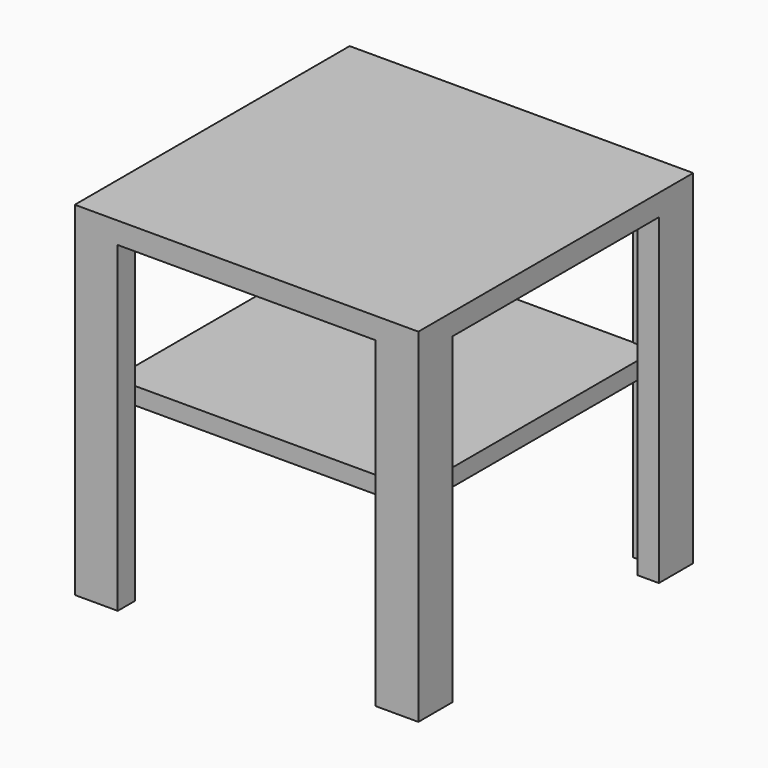
from build123d import *

# Parameters (mm, degrees)
F1_W     = 400
F1_H     = 400
F2_DEPTH = 25
F4_DEPTH = 375
F6_W     = 350
F6_H     = 350
F7_DEPTH = 20


with BuildPart() as f2:
    # F1 (on offset) → F2 (new body)
    with BuildSketch(Plane.XY.offset(400)):
        Rectangle(F1_W, F1_H)
    extrude(amount=-F2_DEPTH)

    # F3 (on face) → F4 (join)
    with BuildSketch(Plane(origin=(0, 0, 375), x_dir=(1, 0, 0), z_dir=(0, 0, -1))):
        Polygon((-200, 200), (-200, 150), (-175, 150), (-175, 175), (-150, 175), (-150, 200), align=None)
        Polygon((175, 150), (200, 150), (200, 200), (150, 200), (150, 175), (175, 175), align=None)
        Polygon((-150, -175), (-175, -175), (-175, -150), (-200, -150), (-200, -200), (-150, -200), align=None)
        Polygon((200, -200), (200, -150), (175, -150), (175, -175), (150, -175), (150, -200), align=None)
    extrude(amount=F4_DEPTH)

    # F6 (on offset) → F7 (join)
    with BuildSketch(Plane.XY.offset(200)):
        with Locations((0.264752, 0.58246)):
            Rectangle(F6_W, F6_H)
    extrude(amount=F7_DEPTH)


solid = f2.part
